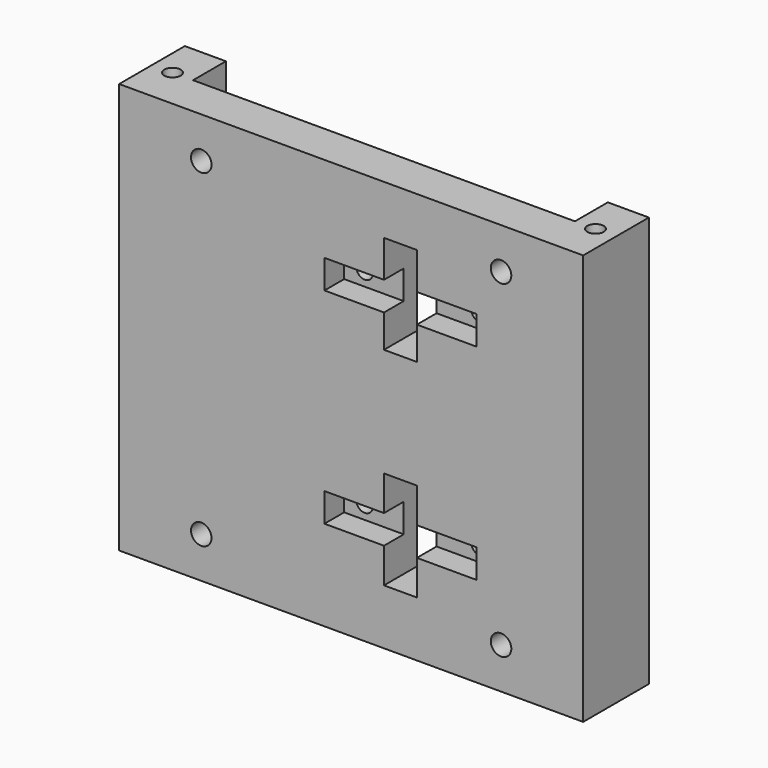
from build123d import *

# Parameters (mm, degrees)
CYLINDER002_R          = 2
CYLINDER002_DEPTH      = 11
ARRAY002_X_COUNT       = 2
ARRAY002_X_PITCH       = 103
ARRAY002_Z_COUNT       = 2
ARRAY002_Z_PITCH       = 91
BOX_W                  = 8
BOX_H                  = 20
BOX_DEPTH              = 24
BOX001_W               = 8
BOX001_H               = 20
BOX001_DEPTH           = 24
BOX002_W               = 37
BOX002_H               = 7
BOX002_DEPTH           = 7
BOX003_W               = 37
BOX003_H               = 7
BOX003_DEPTH           = 7
CYLINDER_R             = 2.5
CYLINDER_DEPTH         = 20
CYLINDER_ROLL_ANGLE    = 90
ARRAY_X_COUNT          = 2
ARRAY_X_PITCH          = 73
ARRAY_Z_COUNT          = 2
ARRAY_Z_PITCH          = 80
CYLINDER001_R          = 2
CYLINDER001_DEPTH      = 20
CYLINDER001_ROLL_ANGLE = 90
ARRAY001_X_COUNT       = 2
ARRAY001_X_PITCH       = 28
ARRAY001_Z_COUNT       = 2
ARRAY001_Z_PITCH       = 50
BOX004_W               = 6.5
BOX004_H               = 16
BOX004_DEPTH           = 3.5
ARRAY003_X_COUNT       = 2
ARRAY003_X_PITCH       = 103
ARRAY003_Z_COUNT       = 2
ARRAY003_Z_PITCH       = 90.5
EXTRUDE001_DEPTH       = 100


with BuildPart() as h_bolts_union:
    # Cylinder002 → Cylinder002 (new body)
    with BuildSketch(Plane(origin=(5, 10, -1), x_dir=(1, 0, 0), z_dir=(0, 0, 1))):
        Circle(CYLINDER002_R)
    extrude(amount=CYLINDER002_DEPTH)

    # Array002 X: h_bolts_union ×2


with BuildPart() as h_bolts_union_1:
    add(h_bolts_union.part)
    with Locations(*[(i * ARRAY002_X_PITCH, 0, 0) for i in range(1, ARRAY002_X_COUNT)]):
        add(h_bolts_union.part)

    # Array002 Z: h_bolts_union ×2


with BuildPart() as h_bolts_union_2:
    add(h_bolts_union_1.part)
    with Locations(*[(0, 0, i * ARRAY002_Z_PITCH) for i in range(1, ARRAY002_Z_COUNT)]):
        add(h_bolts_union_1.part)


with BuildPart() as h_bearing_up_v:
    # Box → Box (new body)
    with BuildSketch(Plane(origin=(64.5, -5, 64), x_dir=(1, 0, 0), z_dir=(0, 0, 1))):
        with Locations((4, 10)):
            Rectangle(BOX_W, BOX_H)
    extrude(amount=BOX_DEPTH)


with BuildPart() as h_bearing_dn_v:
    # Box001 → Box001 (new body)
    with BuildSketch(Plane(origin=(64.5, -5, 13.5), x_dir=(1, 0, 0), z_dir=(0, 0, 1))):
        with Locations((4, 10)):
            Rectangle(BOX001_W, BOX001_H)
    extrude(amount=BOX001_DEPTH)


with BuildPart() as h_bearing_dn_h:
    # Box002 → Box002 (new body)
    with BuildSketch(Plane(origin=(50, -1, 22), x_dir=(1, 0, 0), z_dir=(0, 0, 1))):
        with Locations((18.5, 3.5)):
            Rectangle(BOX002_W, BOX002_H)
    extrude(amount=BOX002_DEPTH)


with BuildPart() as h_bearing_up_h:
    # Box003 → Box003 (new body)
    with BuildSketch(Plane(origin=(50, -1, 72), x_dir=(1, 0, 0), z_dir=(0, 0, 1))):
        with Locations((18.5, 3.5)):
            Rectangle(BOX003_W, BOX003_H)
    extrude(amount=BOX003_DEPTH)


with BuildPart() as h_holes_extra_arr:
    # Cylinder → Cylinder (new body)
    with BuildSketch(Plane.XY):
        Circle(CYLINDER_R)
    extrude(amount=CYLINDER_DEPTH)


with BuildPart() as h_holes_extra_arr_1:
    # Cylinder roll: moved
    add(h_holes_extra_arr.part.rotate(Axis((0, 0, 0), (1, 0, 0)), CYLINDER_ROLL_ANGLE))


with BuildPart() as h_holes_extra_arr_2:
    # Cylinder placement: moved
    add(h_holes_extra_arr_1.part.moved(Location((20, 15, 10))))

    # Array X: h_holes_extra_arr ×2


with BuildPart() as h_holes_extra_arr_3:
    add(h_holes_extra_arr_2.part)
    with Locations(*[(i * ARRAY_X_PITCH, 0, 0) for i in range(1, ARRAY_X_COUNT)]):
        add(h_holes_extra_arr_2.part)

    # Array Z: h_holes_extra_arr ×2


with BuildPart() as h_holes_extra_arr_4:
    add(h_holes_extra_arr_3.part)
    with Locations(*[(0, 0, i * ARRAY_Z_PITCH) for i in range(1, ARRAY_Z_COUNT)]):
        add(h_holes_extra_arr_3.part)


with BuildPart() as h_bearing_bolt:
    # Cylinder001 → Cylinder001 (new body)
    with BuildSketch(Plane.XY):
        Circle(CYLINDER001_R)
    extrude(amount=CYLINDER001_DEPTH)


with BuildPart() as h_bearing_bolt_1:
    # Cylinder001 roll: moved
    add(h_bearing_bolt.part.rotate(Axis((0, 0, 0), (1, 0, 0)), CYLINDER001_ROLL_ANGLE))


with BuildPart() as h_bearing_bolt_2:
    # Cylinder001 placement: moved
    add(h_bearing_bolt_1.part.moved(Location((55, 15, 25.5))))

    # Array001 X: h_bearing_bolt ×2


with BuildPart() as h_bearing_bolt_3:
    add(h_bearing_bolt_2.part)
    with Locations(*[(i * ARRAY001_X_PITCH, 0, 0) for i in range(1, ARRAY001_X_COUNT)]):
        add(h_bearing_bolt_2.part)

    # Array001 Z: h_bearing_bolt ×2


with BuildPart() as h_bearing_bolt_4:
    add(h_bearing_bolt_3.part)
    with Locations(*[(0, 0, i * ARRAY001_Z_PITCH) for i in range(1, ARRAY001_Z_COUNT)]):
        add(h_bearing_bolt_3.part)


with BuildPart() as holes:
    # Box004 → Box004 (new body)
    with BuildSketch(Plane(origin=(1.75, 5, 3), x_dir=(1, 0, 0), z_dir=(0, 0, 1))):
        with Locations((3.25, 8)):
            Rectangle(BOX004_W, BOX004_H)
    extrude(amount=BOX004_DEPTH)

    # Array003 X: holes ×2


with BuildPart() as holes_1:
    add(holes.part)
    with Locations(*[(i * ARRAY003_X_PITCH, 0, 0) for i in range(1, ARRAY003_X_COUNT)]):
        add(holes.part)

    # Array003 Z: holes ×2


with BuildPart() as holes_2:
    add(holes_1.part)
    with Locations(*[(0, 0, i * ARRAY003_Z_PITCH) for i in range(1, ARRAY003_Z_COUNT)]):
        add(holes_1.part)

    # Fusion: union h_bolts_union, h_bearing_up_v, h_bearing_dn_v, h_bearing_dn_h, h_bearing_up_h, h_holes_extra_arr, h_bearing_bolt
    add(h_bolts_union_2.part)
    add(h_bearing_up_v.part)
    add(h_bearing_dn_v.part)
    add(h_bearing_dn_h.part)
    add(h_bearing_up_h.part)
    add(h_holes_extra_arr_4.part)
    add(h_bearing_bolt_4.part)


with BuildPart() as cut:
    # Sketch → Extrude001 (new body)
    with BuildSketch(Plane.XY):
        Polygon((-56.5, 20), (-46.5, 20), (-46.5, 10), (46.5, 10), (46.5, 20), (56.5, 20), (56.5, 0), (-56.5, 0), align=None)
    extrude(amount=EXTRUDE001_DEPTH)


with BuildPart() as cut_1:
    # Extrude001 placement: moved
    add(cut.part.moved(Location((56.5, 0, 0))))

    # Cut: cut holes
    add(holes_2.part, mode=Mode.SUBTRACT)


solid = cut_1.part
